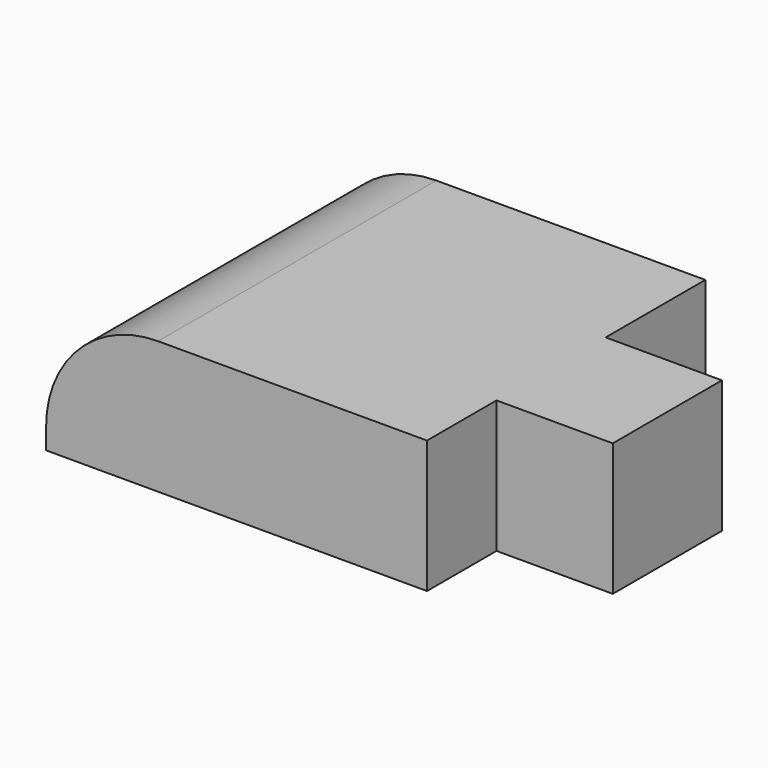
from build123d import *

# Parameters (mm, degrees)
F0_W     = 8.5184480995
F0_H     = 26.1520203203
F0_W_2   = 22.2805645317
F1_DEPTH = 25.4
F2_R     = 21.4623585695
F3_W     = 22.7771224454
F3_H     = 30.0578936003
F4_DEPTH = 3.81


with BuildPart() as f1:
    # F0 (on Top) → F1 (new body)
    with BuildSketch(Plane.XY):
        Polygon((-64.4950717688, 23.875804618), (-64.4950717688, -42.812038213), (8.5184480995, -42.812038213), (8.5184480995, -26.1520203203), (0, -26.1520203203), (0, 0), (8.5184480995, 0), (8.5184480995, 23.875804618), align=None)
        with Locations((4.2592240497, -13.0760101601)):
            Rectangle(F0_W, F0_H)
        with Locations((19.6587303653, -13.0760101601)):
            Rectangle(F0_W_2, F0_H)
    extrude(amount=F1_DEPTH)

    # F2
    f2_edges = [f1.edges().sort_by_distance(p)[0] for p in [
        (-64.495072, -9.468117, 25.4),
    ]]
    fillet(f2_edges, radius=F2_R)

    # F3 (on face) → F4 (join)
    with BuildSketch(Plane.XY.offset(25.4)):
        with Locations((-21.1946009658, -9.6237577964)):
            Rectangle(F3_W, F3_H)
    extrude(amount=-F4_DEPTH)


solid = f1.part
